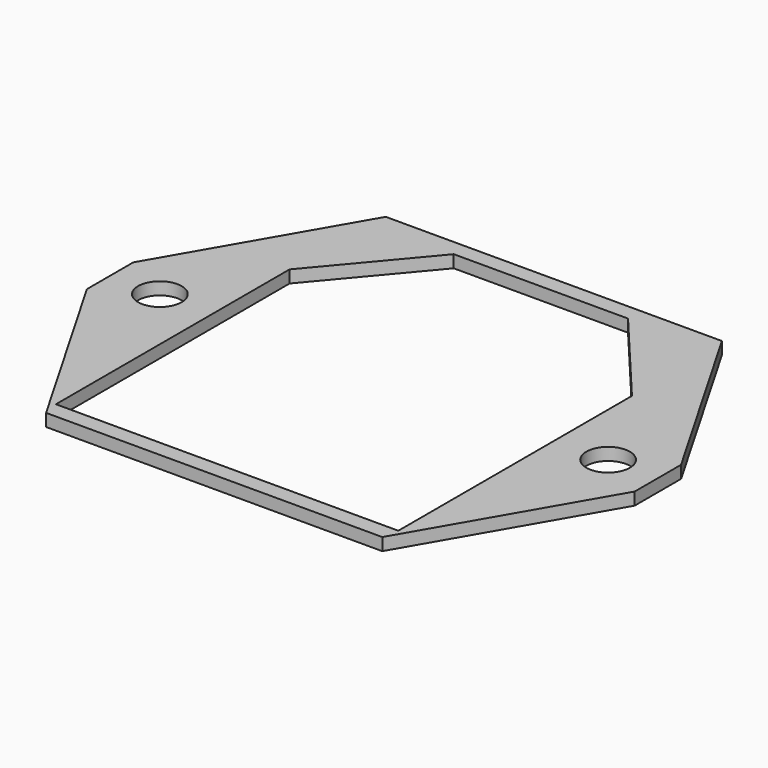
from build123d import *

# Parameters (mm, degrees)
F0_R     = 1.75
F1_DEPTH = 1


with BuildPart() as f1:
    # F0 (on Top) → F1 (new body)
    with BuildSketch(Plane.XY):
        Polygon((13.5, 17.05), (-13.5, 17.05), (-22, 2.327568), (-22, -2.327568), (-13.5, -17.05), (13.5, -17.05), (22, -2.327568), (22, 2.327568), align=None)
        with Locations((-18, 0)):
            Circle(F0_R, mode=Mode.SUBTRACT)
        Polygon((-13.75, 7.705663), (-7, 15.75), (7, 15.75), (13.75, 7.705663), (13.75, -15.75), (-13.75, -15.75), align=None, mode=Mode.SUBTRACT)
        with Locations((18, 0)):
            Circle(F0_R, mode=Mode.SUBTRACT)
    extrude(amount=F1_DEPTH)


solid = f1.part
